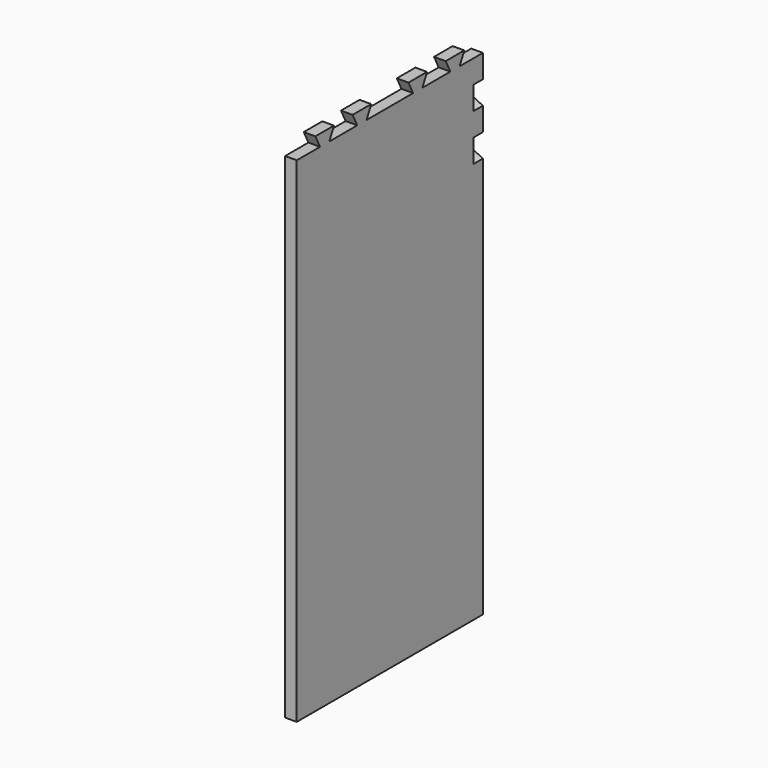
from build123d import *

# Parameters (mm, degrees)
F1_DEPTH = 12
F3_DEPTH = 12
F5_DEPTH = 12


with BuildPart() as f1:
    # F0 (on Right) → F1 (new body)
    with BuildSketch(Plane.YZ):
        Polygon((120, 225), (120, 249), (96, 249), (90, 249), (78, 249), (72, 249), (48, 249), (42, 249), (30, 249), (24, 249), (-24, 249), (-30, 249), (-42, 249), (-48, 249), (-72, 249), (-78, 249), (-90, 249), (-96, 249), (-120, 249), (-120, -261), (120, -261), (120, 153), (108, 153), (108, 177), (120, 177), (120, 201), (108, 201), (108, 225), align=None)
        Polygon((-78, 249), (-72, 261), (-96, 261), (-90, 249), align=None)
        Polygon((-30, 249), (-24, 261), (-48, 261), (-42, 249), align=None)
        Polygon((42, 249), (48, 261), (24, 261), (30, 249), align=None)
        Polygon((90, 249), (96, 261), (72, 261), (78, 249), align=None)
    extrude(amount=F1_DEPTH)

    # F2 (on face) → F3 (join)
    with BuildSketch(Plane(origin=(0, 108, 0), x_dir=(-1, 0, 0), z_dir=(0, 1, 0))):
        Polygon((0, 219), (0, 225), (-12, 225), align=None)
        Polygon((0, 207), (-12, 201), (0, 201), align=None)
    extrude(amount=F3_DEPTH)

    # F4 (on face) → F5 (join)
    with BuildSketch(Plane(origin=(0, 108, 0), x_dir=(-1, 0, 0), z_dir=(0, 1, 0))):
        Polygon((0, 177), (-12, 177), (0, 171), align=None)
        Polygon((0, 159), (-12, 153), (0, 153), align=None)
    extrude(amount=F5_DEPTH)


solid = f1.part
